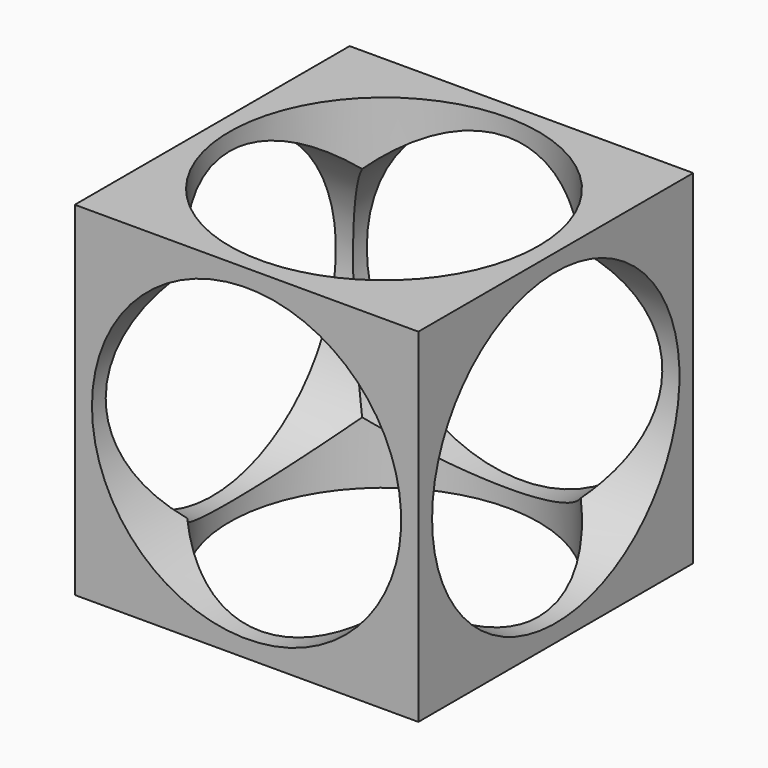
from build123d import *

# Parameters (mm, degrees)
F0_W     = 25.4
F0_H     = 25.4
F1_DEPTH = 25.4
F2_R     = 11.43
F3_DEPTH = 25.401
F4_R     = 11.43
F5_DEPTH = 25.401
F6_R     = 11.43
F7_DEPTH = 25.401


with BuildPart() as f1:
    # F0 (on Top) → F1 (new body)
    with BuildSketch(Plane.XY):
        with Locations((12.7, 12.7)):
            Rectangle(F0_W, F0_H)
    extrude(amount=F1_DEPTH)

    # F2 (on face) → F3 (cut, through all)
    with BuildSketch(Plane.XY.offset(25.4)):
        with Locations((12.7, 12.7)):
            Circle(F2_R)
    extrude(amount=-F3_DEPTH, mode=Mode.SUBTRACT)

    # F4 (on face) → F5 (cut, through all)
    with BuildSketch(Plane(origin=(0, 0, 0), x_dir=(0, -1, 0), z_dir=(-1, 0, 0))):
        with Locations((-12.7, 12.7)):
            Circle(F4_R)
    extrude(amount=-F5_DEPTH, mode=Mode.SUBTRACT)

    # F6 (on face) → F7 (cut, through all)
    with BuildSketch(Plane(origin=(0, 25.4, 0), x_dir=(-1, 0, 0), z_dir=(0, 1, 0))):
        with Locations((-12.7, 12.7)):
            Circle(F6_R)
    extrude(amount=-F7_DEPTH, mode=Mode.SUBTRACT)


solid = f1.part
